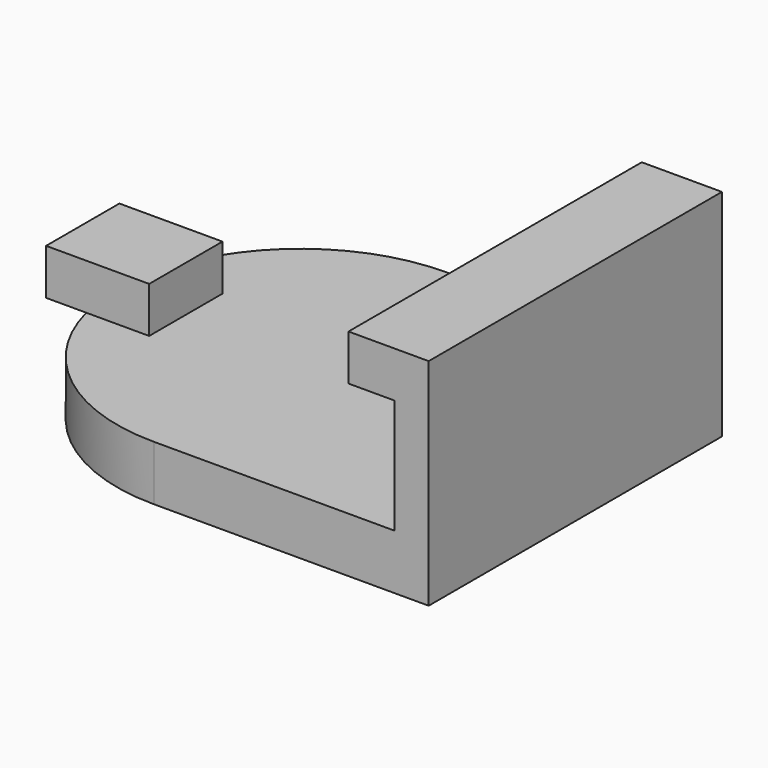
from build123d import *

# Parameters (mm, degrees)
F0_W     = 2
F0_H     = 2
F1_DEPTH = 8
F2_ANGLE = 180
F0_W_2   = 1.5
F0_W_3   = 3
F3_DEPTH = 2


with BuildPart() as f1:
    # F0 (on Front) → F1 (new body, symmetric)
    with BuildSketch(Plane.XZ):
        with Locations((3.5, 7.2)):
            Rectangle(F0_W, F0_H)
        Polygon((4.5, 1.2), (6, 1.2), (6, 8.2), (4.5, 8.2), (4.5, 6.2), align=None)
        Polygon((-6, -1.2), (6, -1.2), (6, 1.2), (4.5, 1.2), (-6, 1.2), align=None)
    extrude(amount=F1_DEPTH, both=True)

    # F0 (on Front) → F2 (revolve, symmetric)
    with BuildSketch(Plane.XZ) as f2_sk:
        Polygon((-14, -1.2), (-6, -1.2), (-6, 1.2), (-11, 1.2), (-14, 1.2), align=None)
    revolve(axis=Axis((-6, 0, 0), (0, 0, 1)), revolution_arc=F2_ANGLE / 2)
    revolve(f2_sk.sketch, axis=Axis((-6, 0, 0), (0, 0, -1)), revolution_arc=F2_ANGLE / 2)

    # F0 (on Front) → F3 (join, symmetric)
    with BuildSketch(Plane.XZ):
        with Locations((-14.75, 2.2)):
            Rectangle(F0_W_2, F0_H)
        with Locations((-12.5, 2.2)):
            Rectangle(F0_W_3, F0_H)
    extrude(amount=F3_DEPTH, both=True)


solid = f1.part
